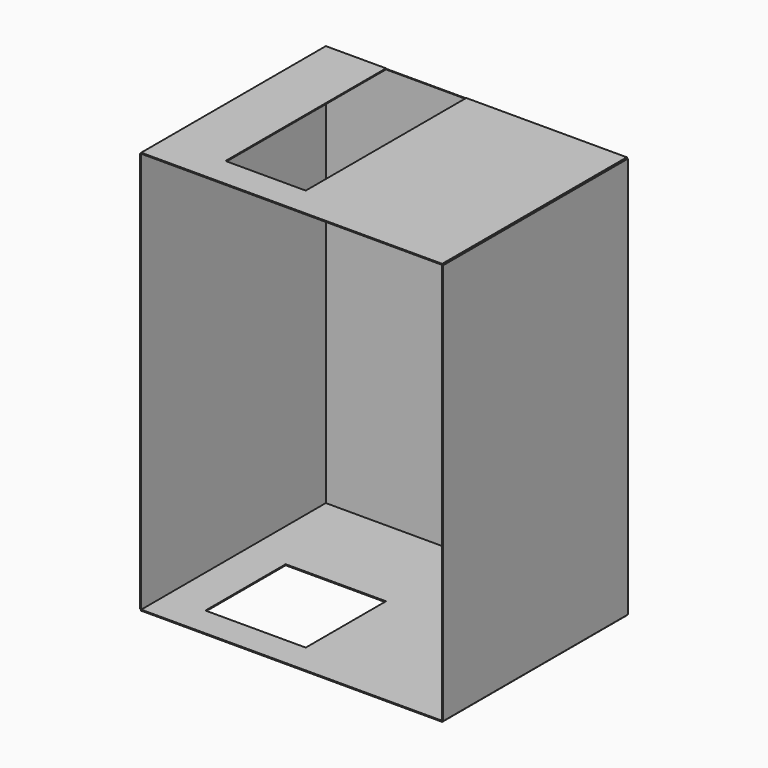
from build123d import *

# Parameters (mm, degrees)
F0_W      = 3000
F0_H      = 4000
F1_DEPTH  = 10
F2_W      = 10
F2_H      = 4000
F3_DEPTH  = 2300
F4_W      = 3000
F4_H      = 10
F5_DEPTH  = 2300
F6_W      = 10
F6_H      = 4000
F7_DEPTH  = 2300
F8_W      = 3000
F8_H      = 10
F9_DEPTH  = 2300
F10_W     = 1000
F10_H     = 1000
F11_DEPTH = 10
F12_W     = 800
F12_H     = 2000
F13_DEPTH = 10


with BuildPart() as f1:
    # F0 (on Front) → F1 (new body)
    with BuildSketch(Plane.XZ):
        with Locations((1387.320906, 1940.487385)):
            Rectangle(F0_W, F0_H)
    extrude(amount=F1_DEPTH)


with BuildPart() as f3:
    # F2 (on face) → F3 (new body)
    with BuildSketch(Plane.XZ.offset(10)):
        with Locations((-117.679094, 1940.487385)):
            Rectangle(F2_W, F2_H)
    extrude(amount=F3_DEPTH)


with BuildPart() as f5:
    # F4 (on face) → F5 (new body)
    with BuildSketch(Plane.XZ.offset(10)):
        with Locations((1387.320906, 3945.487385)):
            Rectangle(F4_W, F4_H)
    extrude(amount=F5_DEPTH)

    # F12 (on face) → F13 (cut, through all)
    with BuildSketch(Plane.XY.offset(3950.487385)):
        with Locations((887.320906, -1010)):
            Rectangle(F12_W, F12_H)
    extrude(amount=-F13_DEPTH, mode=Mode.SUBTRACT)


with BuildPart() as f7:
    # F6 (on face) → F7 (new body)
    with BuildSketch(Plane.XZ.offset(10)):
        with Locations((2892.320906, 1940.487385)):
            Rectangle(F6_W, F6_H)
    extrude(amount=F7_DEPTH)


with BuildPart() as f9:
    # F8 (on face) → F9 (new body)
    with BuildSketch(Plane.XZ.offset(10)):
        with Locations((1387.320906, -64.512615)):
            Rectangle(F8_W, F8_H)
    extrude(amount=F9_DEPTH)

    # F10 (on face) → F11 (cut, through all)
    with BuildSketch(Plane.XY.offset(-59.512615)):
        with Locations((787.320906, -1510)):
            Rectangle(F10_W, F10_H)
    extrude(amount=-F11_DEPTH, mode=Mode.SUBTRACT)


solid = Compound([f1.part, f3.part, f5.part, f7.part, f9.part])
